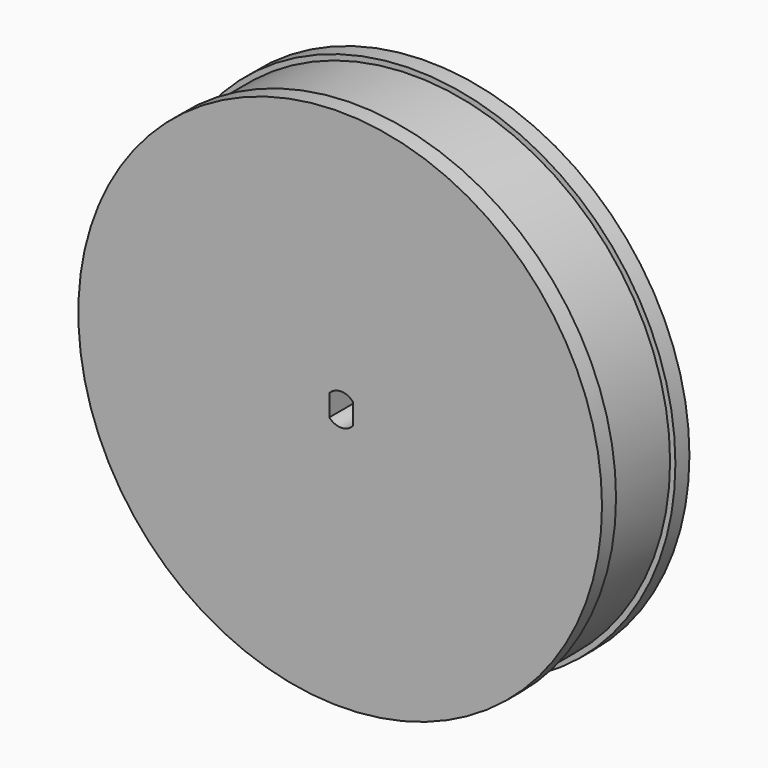
from build123d import *

# Parameters (mm, degrees)
EXTRUDE198_DEPTH           = 40
EXTRUDE198_ROLL_ANGLE      = -90
EXTRUDE198_PLACEMENT_ANGLE = 90
SKETCH181_R                = 39.566192
EXTRUDE197_DEPTH           = 20
CUT124_PLACEMENT_ANGLE     = 270


with BuildPart() as pieza_clave_motor011:
    # Sketch182 → Extrude198 (new body)
    with BuildSketch(Plane(origin=(0, -17.4, 11), x_dir=(-1, 0, 0), z_dir=(0, 1, 0))):
        with BuildLine():
            Line((-2.055, -8.921835), (2.055, -8.921835))
            ThreePointArc((2.055, -13.431835), (3.05091, -11.176835), (2.055, -8.921835))
            Line((2.055, -13.431835), (-2.055, -13.431835))
            ThreePointArc((-2.055, -8.921835), (-3.05091, -11.176835), (-2.055, -13.431835))
        make_face()
    extrude(amount=EXTRUDE198_DEPTH)


with BuildPart() as pieza_clave_motor011_1:
    # Extrude198 roll: moved
    add(pieza_clave_motor011.part.rotate(Axis((0, 0, 0), (1, 0, 0)), EXTRUDE198_ROLL_ANGLE))


with BuildPart() as pieza_clave_motor011_2:
    # Extrude198 placement: moved
    add(pieza_clave_motor011_1.part.moved(Location((0, 0, 13.85))).rotate(Axis((0, 0, 13.85), (0, 0, 1)), EXTRUDE198_PLACEMENT_ANGLE))


with BuildPart() as extrude197:
    # Sketch181 (on Face7 of Revolve004) → Extrude197 (new body)
    with BuildSketch(Plane.XY.offset(20.92)):
        Circle(SKETCH181_R)
    extrude(amount=EXTRUDE197_DEPTH)


with BuildPart() as extrude197_1:
    # Extrude197 placement: moved
    add(extrude197.part.moved(Location((0, 0, -15.1))))


with BuildPart() as obj1:
    # Sketch180 → Revolve004 (revolve)
    with BuildSketch(Plane.XZ):
        Polygon((0, 0), (50.12, 0), (50.12, 3.355495), (49.1, 3.355495), (49.1, 17.564505), (50.12, 17.564505), (50.12, 20.92), (0, 20.92), align=None)
    revolve(axis=Axis((0, 0, 0), (0, 0, 1)))

    # Cut125: cut Extrude197
    add(extrude197_1.part, mode=Mode.SUBTRACT)

    # Cut124: cut Pieza Clave motor011
    add(pieza_clave_motor011_2.part, mode=Mode.SUBTRACT)


with BuildPart() as obj1_1:
    # Cut124 placement: moved
    add(obj1.part.moved(Location((-60, 94.8, 26.75))).rotate(Axis((-60, 94.8, 26.75), (1, 0, 0)), CUT124_PLACEMENT_ANGLE))


solid = obj1_1.part
